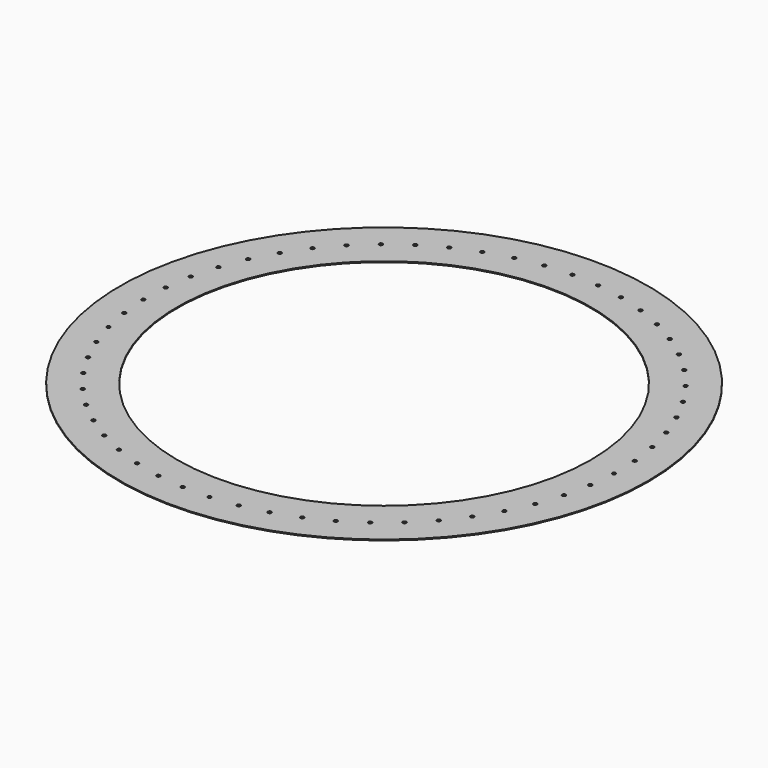
from build123d import *

# Parameters (mm, degrees)
F0_R     = 469.9
F0_R_2   = 368.3
F1_DEPTH = 1.5875
F2_R     = 3.175
F3_DEPTH = 25.4


with BuildPart() as f1:
    # F0 (on Top) → F1 (new body)
    with BuildSketch(Plane.XY):
        Circle(F0_R)
        Circle(F0_R_2, mode=Mode.SUBTRACT)
    extrude(amount=F1_DEPTH)

    # F2 (on face) → F3 (cut)
    with BuildSketch(Plane.XY.offset(1.5875)):
        with Locations((0, 419.1)):
            Circle(F2_R)
        with Locations((-47.7738, 416.368195)):
            Circle(F2_R)
        with Locations((-94.924795, 408.208394)):
            Circle(F2_R)
        with Locations((-140.838301, 394.726973)):
            Circle(F2_R)
        with Locations((-184.915764, 376.099681)):
            Circle(F2_R)
        with Locations((-226.582567, 352.569356)):
            Circle(F2_R)
        with Locations((-265.295519, 324.442749)):
            Circle(F2_R)
        with Locations((-300.549939, 292.086535)):
            Circle(F2_R)
        with Locations((-331.886231, 255.922526)):
            Circle(F2_R)
        with Locations((-358.895879, 216.422176)):
            Circle(F2_R)
        with Locations((-381.226769, 174.100432)):
            Circle(F2_R)
        with Locations((-398.587786, 129.509022)):
            Circle(F2_R)
        with Locations((-410.752601, 83.229265)):
            Circle(F2_R)
        with Locations((-417.562628, 35.864486)):
            Circle(F2_R)
        with Locations((-418.929088, -11.967841)):
            Circle(F2_R)
        with Locations((-414.834166, -59.644149)):
            Circle(F2_R)
        with Locations((-405.331247, -106.542904)):
            Circle(F2_R)
        with Locations((-390.544215, -152.052709)):
            Circle(F2_R)
        with Locations((-370.665841, -195.580275)):
            Circle(F2_R)
        with Locations((-345.955272, -236.558153)):
            Circle(F2_R)
        with Locations((-316.734647, -274.452134)):
            Circle(F2_R)
        with Locations((-283.384901, -308.768211)):
            Circle(F2_R)
        with Locations((-246.340799, -339.059022)):
            Circle(F2_R)
        with Locations((-206.085269, -364.929681)):
            Circle(F2_R)
        with Locations((-163.143102, -386.042923)):
            Circle(F2_R)
        with Locations((-118.074115, -402.123505)):
            Circle(F2_R)
        with Locations((-71.465851, -412.961793)):
            Circle(F2_R)
        with Locations((-23.925921, -418.416491)):
            Circle(F2_R)
        with Locations((23.925921, -418.416491)):
            Circle(F2_R)
        with Locations((71.465851, -412.961793)):
            Circle(F2_R)
        with Locations((118.074115, -402.123505)):
            Circle(F2_R)
        with Locations((163.143102, -386.042923)):
            Circle(F2_R)
        with Locations((206.085269, -364.929681)):
            Circle(F2_R)
        with Locations((246.340799, -339.059022)):
            Circle(F2_R)
        with Locations((283.384901, -308.768211)):
            Circle(F2_R)
        with Locations((316.734647, -274.452134)):
            Circle(F2_R)
        with Locations((345.955272, -236.558153)):
            Circle(F2_R)
        with Locations((370.665841, -195.580275)):
            Circle(F2_R)
        with Locations((390.544215, -152.052709)):
            Circle(F2_R)
        with Locations((405.331247, -106.542904)):
            Circle(F2_R)
        with Locations((414.834166, -59.644149)):
            Circle(F2_R)
        with Locations((418.929088, -11.967841)):
            Circle(F2_R)
        with Locations((417.562628, 35.864486)):
            Circle(F2_R)
        with Locations((410.752601, 83.229265)):
            Circle(F2_R)
        with Locations((398.587786, 129.509022)):
            Circle(F2_R)
        with Locations((381.226769, 174.100432)):
            Circle(F2_R)
        with Locations((358.895879, 216.422176)):
            Circle(F2_R)
        with Locations((331.886231, 255.922526)):
            Circle(F2_R)
        with Locations((300.549939, 292.086535)):
            Circle(F2_R)
        with Locations((265.295519, 324.442749)):
            Circle(F2_R)
        with Locations((226.582567, 352.569356)):
            Circle(F2_R)
        with Locations((184.915764, 376.099681)):
            Circle(F2_R)
        with Locations((140.838301, 394.726973)):
            Circle(F2_R)
        with Locations((94.924795, 408.208394)):
            Circle(F2_R)
        with Locations((47.7738, 416.368195)):
            Circle(F2_R)
    extrude(amount=-F3_DEPTH, mode=Mode.SUBTRACT)


solid = f1.part
